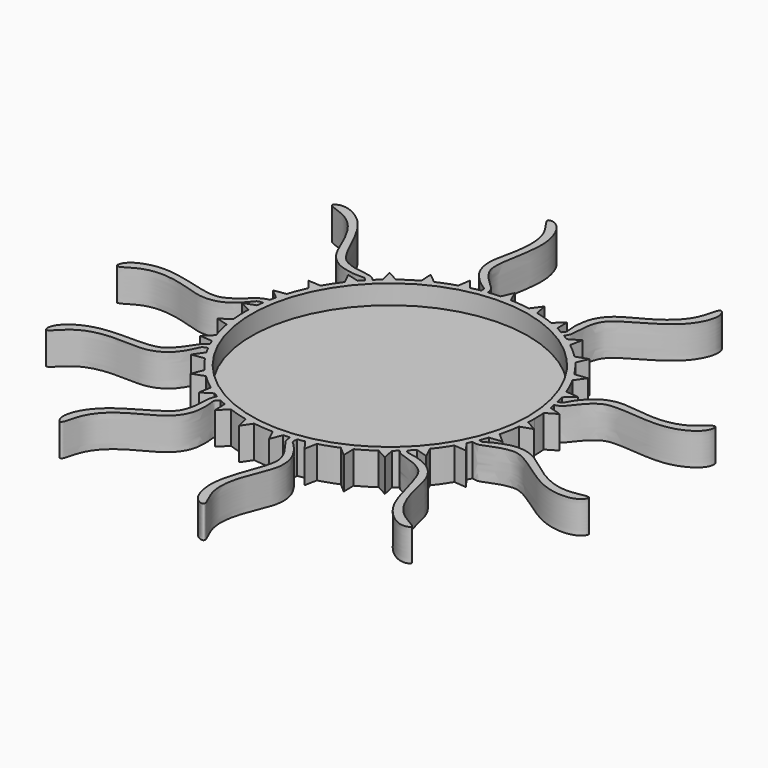
from build123d import *

# Parameters (mm, degrees)
F0_R     = 21.5
F1_DEPTH = 5
F2_DEPTH = 2


with BuildPart() as f1:
    # F0 (on Top) → F1 (new body)
    with BuildSketch(Plane.XY):
        with BuildLine():
            ThreePointArc((22.4659625878, -1.2371438901), (22.4914890372, -0.6188060177), (22.5, 0))
            ThreePointArc((22.5, 0), (22.4810477467, 0.9233050482), (22.4242229145, 1.8450546555))
            ThreePointArc((22.4242229145, 1.8450546555), (22.3452317163, 2.6345055598), (22.2384564089, 3.4206807143))
            ThreePointArc((22.2384564089, 3.4206807143), (22.1692894741, 3.8435145655), (22.0920836798, 4.2649547107))
            ThreePointArc((22.0920836798, 4.2649547107), (21.9980055691, 4.7262829985), (21.8942950703, 5.1855417628))
            ThreePointArc((21.8942950703, 5.1855417628), (21.7371437588, 5.8091807694), (21.5622325182, 6.4280734929))
            ThreePointArc((21.5622325182, 6.4280734929), (21.3221963516, 7.1842844281), (21.0556481201, 7.9315624085))
            ThreePointArc((21.0556481201, 7.9315624085), (20.4628827549, 9.3552353984), (19.7739887058, 10.7349602077))
            ThreePointArc((19.7739887058, 10.7349602077), (19.3832188555, 11.4254464595), (18.9683478692, 12.1017262865))
            ThreePointArc((18.9683478692, 12.1017262865), (18.09483079, 13.3726249735), (17.1363094477, 14.5807029498))
            ThreePointArc((17.1363094477, 14.5807029498), (16.6115922974, 15.1758031532), (16.0662202575, 15.7520337302))
            ThreePointArc((16.0662202575, 15.7520337302), (14.9494753236, 16.8155638487), (13.7625020938, 17.8000993289))
            ThreePointArc((13.7625020938, 17.8000993289), (13.1263780299, 18.2742496376), (12.4739325994, 18.7256777049))
            ThreePointArc((12.4739325994, 18.7256777049), (12.0566464932, 18.9970333299), (11.6334597971, 19.259091701))
            ThreePointArc((11.6334597971, 19.259091701), (11.2348232902, 19.4943259857), (10.8314321786, 19.7213102242))
            ThreePointArc((10.8314321786, 19.7213102242), (10.3179133787, 19.9947659028), (9.7974960052, 20.2548530488))
            ThreePointArc((9.7974960052, 20.2548530488), (9.0772911448, 20.5876852869), (8.3457995609, 20.8949187529))
            ThreePointArc((8.3457995609, 20.8949187529), (6.8949033044, 21.4175233961), (5.4116167935, 21.8395147309))
            ThreePointArc((5.4116167935, 21.8395147309), (4.63826913, 22.0167313532), (3.8591542327, 22.1665723243))
            ThreePointArc((3.8591542327, 22.1665723243), (2.3316887178, 22.3788567117), (0.7932696061, 22.4860117258))
            ThreePointArc((0.7932696061, 22.4860117258), (0, 22.5), (-0.7932696061, 22.4860117258))
            ThreePointArc((-0.7932696061, 22.4860117258), (-1.7166982486, 22.4344143477), (-2.6372262806, 22.344910775))
            ThreePointArc((-2.6372262806, 22.344910775), (-3.0893678468, 22.2868976376), (-3.5402413379, 22.2197365257))
            ThreePointArc((-3.5402413379, 22.2197365257), (-4.2994289921, 22.085400389), (-5.0535684833, 21.9251327381))
            ThreePointArc((-5.0535684833, 21.9251327381), (-5.8234285148, 21.7333310915), (-6.5860476828, 21.5145061742))
            ThreePointArc((-6.5860476828, 21.5145061742), (-8.044312676, 21.0128302132), (-9.4647878232, 20.4124420749))
            ThreePointArc((-9.4647878232, 20.4124420749), (-10.178573327, 20.0660570373), (-10.8797027709, 19.6947218212))
            ThreePointArc((-10.8797027709, 19.6947218212), (-12.2032281254, 18.9032066941), (-13.4694262561, 18.0228897886))
            ThreePointArc((-13.4694262561, 18.0228897886), (-14.0964749963, 17.5368010959), (-14.7059961492, 17.028907107))
            ThreePointArc((-14.7059961492, 17.028907107), (-15.1736308308, 16.613576599), (-15.6295407805, 16.1854087064))
            ThreePointArc((-15.6295407805, 16.1854087064), (-15.9542734859, 15.8654075755), (-16.2724558141, 15.5388925532))
            ThreePointArc((-16.2724558141, 15.5388925532), (-16.5874382994, 15.2022001915), (-16.8954556756, 14.8591243859))
            ThreePointArc((-16.8954556756, 14.8591243859), (-17.4088313859, 14.2542130536), (-17.9005609178, 13.6315780022))
            ThreePointArc((-17.9005609178, 13.6315780022), (-18.7922724827, 12.373378477), (-19.5957034061, 11.0570524111))
            ThreePointArc((-19.5957034061, 11.0570524111), (-19.9733528967, 10.3593037443), (-20.3261674772, 9.6486742969))
            ThreePointArc((-20.3261674772, 9.6486742969), (-20.9393544085, 8.2336770009), (-21.4541743304, 6.7800002802))
            ThreePointArc((-21.4541743304, 6.7800002802), (-21.6798748317, 6.0193876169), (-21.8786185299, 5.2512904341))
            ThreePointArc((-21.8786185299, 5.2512904341), (-21.9863960862, 4.7799986551), (-22.0840226833, 4.3064999855))
            ThreePointArc((-22.0840226833, 4.3064999855), (-22.1861859681, 3.7447499499), (-22.2740624256, 3.1805884771))
            ThreePointArc((-22.2740624256, 3.1805884771), (-22.3378018265, 2.6967776254), (-22.3910337173, 2.2116982328))
            ThreePointArc((-22.3910337173, 2.2116982328), (-22.4550897646, 1.4208953733), (-22.4912251051, 0.6283257694))
            ThreePointArc((-22.4912251051, 0.6283257694), (-22.4814365334, -0.9137895778), (-22.3660366982, -2.4516122069))
            ThreePointArc((-22.3660366982, -2.4516122069), (-22.2656966225, -3.2386345757), (-22.1376713316, -4.0216300193))
            ThreePointArc((-22.1376713316, -4.0216300193), (-21.8101931822, -5.5286050098), (-21.3802570757, -7.0096082186))
            ThreePointArc((-21.3802570757, -7.0096082186), (-21.1198312068, -7.7590418091), (-20.8331448944, -8.4988277904))
            ThreePointArc((-20.8331448944, -8.4988277904), (-20.6676034532, -8.8938274944), (-20.4945735532, -9.2856047124))
            ThreePointArc((-20.4945735532, -9.2856047124), (-20.2669810732, -9.772383444), (-20.0278288329, -10.2535882617))
            ThreePointArc((-20.0278288329, -10.2535882617), (-19.7584268043, -10.7635760889), (-19.4760411948, -11.2664909967))
            ThreePointArc((-19.4760411948, -11.2664909967), (-19.0667167024, -11.9461422305), (-18.6336846133, -12.6109396054))
            ThreePointArc((-18.6336846133, -12.6109396054), (-17.7260727104, -13.8577179313), (-16.735188863, -15.0393967207))
            ThreePointArc((-16.735188863, -15.0393967207), (-16.1945491863, -15.620069675), (-15.6337731724, -16.181320601))
            ThreePointArc((-15.6337731724, -16.181320601), (-14.4886380231, -17.2142199427), (-13.2754394576, -18.1662518756))
            ThreePointArc((-13.2754394576, -18.1662518756), (-12.6267089707, -18.6230024585), (-11.9622784065, -19.0565971602))
            ThreePointArc((-11.9622784065, -19.0565971602), (-11.6012267393, -19.2785253104), (-11.2360591192, -19.4936137099))
            ThreePointArc((-11.2360591192, -19.4936137099), (-10.7475097101, -19.767170638), (-10.2523045107, -20.0284860192))
            ThreePointArc((-10.2523045107, -20.0284860192), (-9.7518656079, -20.2768616202), (-9.2454141712, -20.5127354783))
            ThreePointArc((-9.2454141712, -20.5127354783), (-8.5164605276, -20.8259429578), (-7.7769174986, -21.113255415))
            ThreePointArc((-7.7769174986, -21.113255415), (-6.3124014936, -21.5963790341), (-4.8182316585, -21.9780491328))
            ThreePointArc((-4.8182316585, -21.9780491328), (-4.0403686752, -22.1342589885), (-3.2574818888, -22.2629470588))
            ThreePointArc((-3.2574818888, -22.2629470588), (-1.7248279859, -22.4337907724), (-0.1840713419, -22.4992470483))
            ThreePointArc((-0.1840713419, -22.4992470483), (0.6092861552, -22.49174894), (1.4018860646, -22.4562845427))
            ThreePointArc((1.4018860646, -22.4562845427), (1.9130993627, -22.418520264), (2.4233196812, -22.3691198245))
            ThreePointArc((2.4233196812, -22.3691198245), (2.9137801889, -22.3105330508), (3.402836419, -22.2411938597))
            ThreePointArc((3.402836419, -22.2411938597), (3.9315312838, -22.1538498181), (4.4579961666, -22.0539400148))
            ThreePointArc((4.4579961666, -22.0539400148), (5.2327677504, -21.8830560405), (6.0010328996, -21.6849626271))
            ThreePointArc((6.0010328996, -21.6849626271), (7.4723482033, -21.2229595563), (8.908560584, -20.6612571815))
            ThreePointArc((8.908560584, -20.6612571815), (9.6314642265, -20.3343280404), (10.3423920857, -19.9821151519))
            ThreePointArc((10.3423920857, -19.9821151519), (11.6868658278, -19.2267305365), (12.9764380663, -18.3810243216))
            ThreePointArc((12.9764380663, -18.3810243216), (13.6164198419, -17.9120939784), (14.2394709317, -17.420891699))
            ThreePointArc((14.2394709317, -17.420891699), (14.6084623037, -17.1126511424), (14.9707830732, -16.7965965057))
            ThreePointArc((14.9707830732, -16.7965965057), (15.314287697, -16.4840102018), (15.6512671298, -16.1644003054))
            ThreePointArc((15.6512671298, -16.1644003054), (16.074737284, -15.7433421245), (16.486883934, -15.3111938837))
            ThreePointArc((16.486883934, -15.3111938837), (17.016452009, -14.7204062792), (17.524861791, -14.1113152897))
            ThreePointArc((17.524861791, -14.1113152897), (18.450317622, -12.8777241641), (19.289099216, -11.5836372282))
            ThreePointArc((19.289099216, -11.5836372282), (19.6855048219, -10.8963709512), (20.0574334287, -10.1955561032))
            ThreePointArc((20.0574334287, -10.1955561032), (20.237872464, -9.8325234874), (20.4117413994, -9.4662988038))
            ThreePointArc((20.4117413994, -9.4662988038), (20.6058059511, -9.0360810702), (20.7908040153, -8.6018874905))
            ThreePointArc((20.7908040153, -8.6018874905), (21.0359453202, -7.9836711159), (21.2627085534, -7.3584798003))
            ThreePointArc((21.2627085534, -7.3584798003), (21.5089232101, -6.6042578948), (21.7283936254, -5.8418242409))
            ThreePointArc((21.7283936254, -5.8418242409), (22.0775192962, -4.3397167793), (22.3229311895, -2.8172225879))
            ThreePointArc((22.3229311895, -2.8172225879), (22.4083782015, -2.028444325), (22.4659625878, -1.2371438901))
        make_face()
        Circle(F0_R, mode=Mode.SUBTRACT)
        with BuildLine():
            ThreePointArc((22.2384564089, 3.4206807143), (22.3452317163, 2.6345055598), (22.4242229145, 1.8450546555))
            Line((22.4242229145, 1.8450546555), (24.0974978005, 2.8410979461))
            Line((24.0974978005, 2.8410979461), (22.2384564089, 3.4206807143))
        make_face()
        with BuildLine():
            Line((24.1655961002, -2.1875106636), (22.4659625878, -1.2371438901))
            ThreePointArc((22.4659625878, -1.2371438901), (22.4083782015, -2.028444325), (22.3229311895, -2.8172225879))
            Line((22.3229311895, -2.8172225879), (24.1655961002, -2.1875106636))
        make_face()
        with BuildLine():
            ThreePointArc((21.8942950703, 5.1855417628), (21.9980055691, 4.7262829985), (22.0920836798, 4.2649547107))
            add(Edge.make_bspline(
                [(21.8942950703, 5.1855417628), (22.0635231652, 5.2198289256), (22.5705621267, 5.2798439981), (22.6961263843, 5.6985990844), (23.0767262993, 6.2471991798), (23.3613164831, 6.8310220181), (24.2327881734, 7.8294574658), (25.4098177988, 8.9960774368), (27.7680098339, 9.8412441253), (30.4783038105, 9.5162907145), (34.5037120835, 9.0165783236), (38.4905899722, 9.9409078137), (41.0370062872, 12.8791769816), (41.1374541007, 10.3429327839), (36.8089597788, 7.6000413307), (30.4227303321, 8.465354344), (27.0602755734, 8.4919760217), (25.8690474599, 7.7551246288), (25.0330800431, 7.0454259478), (24.3893608031, 6.3025511508), (23.4688304487, 5.1375244865), (23.0029332466, 4.5549350788), (22.3227383292, 4.3207266008), (22.0920836798, 4.2649547107)],
                knots=[0, 0, 0, 0, 0.027981319, 0.0504052407, 0.0788156994, 0.1075040846, 0.1475098092, 0.193390466, 0.2478732016, 0.3063838053, 0.3775020553, 0.4513844423, 0.5099516501, 0.548530387, 0.625293872, 0.7169324806, 0.7805116439, 0.8204577183, 0.856627857, 0.8924503377, 0.9352274154, 0.966565739, 1, 1, 1, 1], degree=3))
        make_face()
        with BuildLine():
            Line((23.1956077398, -7.1221499117), (21.7283936254, -5.8418242409))
            ThreePointArc((21.7283936254, -5.8418242409), (21.5089232101, -6.6042578948), (21.2627085534, -7.3584798003))
            Line((21.2627085534, -7.3584798003), (23.1956077398, -7.1221499117))
        make_face()
        with BuildLine():
            ThreePointArc((21.0556481201, 7.9315624085), (21.3221963516, 7.1842844281), (21.5622325182, 6.4280734929))
            Line((21.5622325182, 6.4280734929), (22.9942381537, 7.747660906))
            Line((22.9942381537, 7.747660906), (21.0556481201, 7.9315624085))
        make_face()
        with BuildLine():
            add(Edge.make_bspline(
                [(20.7908040153, -8.6018874905), (20.9498167592, -8.6593125453), (21.3525760836, -8.808693402), (21.6516799134, -8.5267477084), (22.2555891561, -8.2419460467), (22.7939629041, -7.8786357294), (24.0478972505, -7.4497011128), (25.6505447925, -7.0278933941), (28.1153823462, -7.475053589), (30.3000890762, -9.111618486), (33.5363387059, -11.5570862476), (37.4512409843, -12.7500323721), (41.1256367856, -11.4786247871), (39.944505045, -13.7253005992), (34.8244732755, -13.9364671166), (29.7264928469, -9.9939693415), (26.8278324456, -8.2896869129), (25.4277729412, -8.3322048812), (24.3489545811, -8.5288382596), (23.4200399678, -8.8503270857), (22.0403239638, -9.3990045958), (21.3455504474, -9.6705932218), (20.6393801304, -9.5333262548), (20.4117413994, -9.4662988038)],
                knots=[0.0047111996, 0.0047111996, 0.0047111996, 0.0047111996, 0.027981319, 0.0504052407, 0.0788156994, 0.1075040846, 0.1475098092, 0.193390466, 0.2478732016, 0.3063838053, 0.3775020553, 0.4513844423, 0.5099516501, 0.548530387, 0.625293872, 0.7169324806, 0.7805116439, 0.8204577183, 0.856627857, 0.8924503377, 0.9352274154, 0.966565739, 1, 1, 1, 1], degree=3))
            ThreePointArc((20.7908040153, -8.6018874905), (20.6058059511, -9.0360810702), (20.4117413994, -9.4662988038))
        make_face()
        with BuildLine():
            ThreePointArc((18.9683478692, 12.1017262865), (19.3832188555, 11.4254464595), (19.7739887058, 10.7349602077))
            Line((19.7739887058, 10.7349602077), (20.9032101196, 12.3214059457))
            Line((20.9032101196, 12.3214059457), (18.9683478692, 12.1017262865))
        make_face()
        with BuildLine():
            Line((21.2292007158, -11.7508414486), (20.0574334287, -10.1955561032))
            ThreePointArc((20.0574334287, -10.1955561032), (19.6855048219, -10.8963709512), (19.289099216, -11.5836372282))
            Line((19.289099216, -11.5836372282), (21.2292007158, -11.7508414486))
        make_face()
        with BuildLine():
            ThreePointArc((16.0662202575, 15.7520337302), (16.6115922974, 15.1758031532), (17.1363094477, 14.5807029498))
            Line((17.1363094477, 14.5807029498), (17.914238435, 16.3658577251))
            Line((17.914238435, 16.3658577251), (16.0662202575, 15.7520337302))
        make_face()
        with BuildLine():
            Line((18.3508463938, -15.8747495859), (17.524861791, -14.1113152897))
            ThreePointArc((17.524861791, -14.1113152897), (17.016452009, -14.7204062792), (16.486883934, -15.3111938837))
            Line((16.486883934, -15.3111938837), (18.3508463938, -15.8747495859))
        make_face()
        with BuildLine():
            ThreePointArc((12.4739325994, 18.7256777049), (13.1263780299, 18.2742496376), (13.7625020938, 17.8000993289))
            Line((13.7625020938, 17.8000993289), (14.1557209932, 19.7072778675))
            Line((14.1557209932, 19.7072778675), (12.4739325994, 18.7256777049))
        make_face()
        with BuildLine():
            add(Edge.make_bspline(
                [(15.6512671298, -16.1644003054), (15.7319649649, -16.303000321), (15.9359851968, -16.6400888591), (16.3339929362, -16.6170801301), (16.9796812351, -16.7870947784), (17.6256308235, -16.8548429032), (18.8619141185, -17.3322733849), (20.3607461377, -18.0393119086), (21.961492216, -19.9662235305), (22.5831110282, -22.6242073925), (23.4903056964, -26.5777655459), (25.7224838443, -30.0080659732), (29.3544793723, -31.395967352), (27.0055445907, -32.3578040251), (22.9476374842, -29.2284739796), (21.5765466268, -22.9314268131), (20.4515355624, -19.7626477385), (19.3516977358, -18.8952774896), (18.3988814266, -18.3524563215), (17.4806425149, -18.0016362463), (16.0710356317, -17.5350832518), (15.4486949157, -17.3250455083), (15.0900996853, -16.9429719807), (14.9707830732, -16.7965965057)],
                knots=[0.0069414758, 0.0069414758, 0.0069414758, 0.0069414758, 0.027981319, 0.0504052407, 0.0788156994, 0.1075040846, 0.1475098092, 0.193390466, 0.2478732016, 0.3063838053, 0.3775020553, 0.4513844423, 0.5099516501, 0.548530387, 0.625293872, 0.7169324806, 0.7805116439, 0.8204577183, 0.856627857, 0.8924503377, 0.9352274154, 0.966565739, 0.9871481598, 0.9871481598, 0.9871481598, 0.9871481598], degree=3))
            ThreePointArc((15.6512671298, -16.1644003054), (15.314287697, -16.4840102018), (14.9707830732, -16.7965965057))
        make_face()
        with BuildLine():
            ThreePointArc((10.8314321786, 19.7213102242), (11.2348232902, 19.4943259857), (11.6334597971, 19.259091701))
            add(Edge.make_bspline(
                [(10.8314321786, 19.7213102242), (10.9504567532, 19.8465327213), (11.3228553497, 20.1938228668), (11.1885515728, 20.6063639492), (11.1847118215, 21.2748445154), (11.0832652807, 21.9160692082), (11.2243415371, 23.2338894097), (11.5194013291, 24.864612126), (12.9663383594, 26.9095464899), (15.3728709805, 28.1979175263), (18.956914258, 30.0974576006), (21.692600245, 33.1414028255), (22.0931802353, 37.0088566199), (23.6301925048, 34.9889010654), (21.6577530415, 30.2593367877), (15.9301474062, 27.3051549957), (13.1604905179, 25.3983717719), (12.6073890205, 24.1114444722), (12.3295068694, 23.0508224216), (12.2289333601, 22.0722208617), (12.1405556491, 20.5933209637), (12.1038054937, 19.8983756997), (11.7680696259, 19.4260002683), (11.6334597971, 19.259091701)],
                knots=[0, 0, 0, 0, 0.0279971596, 0.0504275097, 0.0788461131, 0.1075427227, 0.147559916, 0.1934537259, 0.2479520804, 0.3064794579, 0.377618096, 0.4515216635, 0.5101056613, 0.5486954578, 0.6254809493, 0.7171458287, 0.7807432188, 0.8207007448, 0.8568812528, 0.892714003, 0.9355033439, 0.9668506516, 0.9917869557, 0.9917869557, 0.9917869557, 0.9917869557], degree=3))
        make_face()
        with BuildLine():
            Line((14.6841908536, -19.316722723), (14.2394709317, -17.420891699))
            ThreePointArc((14.2394709317, -17.420891699), (13.6164198419, -17.9120939784), (12.9764380663, -18.3810243216))
            Line((12.9764380663, -18.3810243216), (14.6841908536, -19.316722723))
        make_face()
        with BuildLine():
            ThreePointArc((8.3457995609, 20.8949187529), (9.0772911448, 20.5876852869), (9.7974960052, 20.2548530488))
            Line((9.7974960052, 20.2548530488), (9.7891132288, 22.2021282758))
            Line((9.7891132288, 22.2021282758), (8.3457995609, 20.8949187529))
        make_face()
        with BuildLine():
            Line((10.3867433984, -21.9289032868), (10.3423920857, -19.9821151519))
            ThreePointArc((10.3423920857, -19.9821151519), (9.6314642265, -20.3343280404), (8.908560584, -20.6612571815))
            Line((8.908560584, -20.6612571815), (10.3867433984, -21.9289032868))
        make_face()
        with BuildLine():
            ThreePointArc((3.8591542327, 22.1665723243), (4.63826913, 22.0167313532), (5.4116167935, 21.8395147309))
            Line((5.4116167935, 21.8395147309), (5.0019924419, 23.7432371296))
            Line((5.0019924419, 23.7432371296), (3.8591542327, 22.1665723243))
        make_face()
        with BuildLine():
            Line((5.6431103941, -23.59907928), (6.0010328996, -21.6849626271))
            ThreePointArc((6.0010328996, -21.6849626271), (5.2327677504, -21.8830560405), (4.4579961666, -22.0539400148))
            Line((4.4579961666, -22.0539400148), (5.6431103941, -23.59907928))
        make_face()
        with BuildLine():
            ThreePointArc((-0.7932696061, 22.4860117258), (0, 22.5), (0.7932696061, 22.4860117258))
            Line((0.7932696061, 22.4860117258), (0, 24.2644026875))
            Line((0, 24.2644026875), (-0.7932696061, 22.4860117258))
        make_face()
        with BuildLine():
            add(Edge.make_bspline(
                [(3.402836419, -22.2411938597), (3.3907860316, -22.4356319503), (3.2542055999, -23.1077554776), (3.6541842138, -23.3163189345), (4.0824687706, -23.8354043451), (4.5737232137, -24.2584178396), (5.3122132817, -25.3597361699), (6.1345735388, -26.7982092924), (6.340553665, -29.2949243408), (5.3252107534, -31.8287216021), (3.8006687709, -35.5876461617), (3.6616238593, -39.6779046401), (5.8407126341, -42.8980347266), (3.3648911032, -42.3386314347), (1.8357581586, -37.4477143393), (4.3244641436, -31.5030505559), (5.2204460808, -28.2620571255), (4.8170147219, -26.9207116766), (4.3478629993, -25.9295344736), (3.7969067871, -25.1155224136), (2.9098324933, -23.9246537338), (2.4676647715, -23.3243608531), (2.4175148844, -22.6054741009), (2.4233196812, -22.3691198245)],
                knots=[0, 0, 0, 0, 0.0315699306, 0.053911065, 0.0822166347, 0.1107991048, 0.1506571316, 0.1963684009, 0.2506499907, 0.3089445782, 0.3798002656, 0.453409885, 0.5117608676, 0.550197175, 0.6266772556, 0.7179775422, 0.7813219766, 0.8211205734, 0.857157175, 0.892847402, 0.9354665503, 0.9666891755, 1, 1, 1, 1], degree=3))
            ThreePointArc((3.402836419, -22.2411938597), (2.9137801889, -22.3105330508), (2.4233196812, -22.3691198245))
        make_face()
        with BuildLine():
            ThreePointArc((-3.5402413379, 22.2197365257), (-3.0893678468, 22.2868976376), (-2.6372262806, 22.344910775))
            add(Edge.make_bspline(
                [(-3.5402413379, 22.2197365257), (-3.5596598142, 22.3914061092), (-3.5863262966, 22.8999137871), (-3.988679904, 23.0622074214), (-4.5032338717, 23.4889570265), (-5.0596490639, 23.8234157552), (-5.9784758366, 24.7785649348), (-7.0380211333, 26.0528022058), (-7.6744585442, 28.4756787491), (-7.1145186662, 31.1473386295), (-6.2658721733, 35.1138758901), (-6.8392044415, 39.1661432136), (-9.5443580752, 41.9589566693), (-7.0090099046, 41.8379739748), (-4.6538131191, 37.2868923676), (-6.072412509, 31.0003804456), (-6.392032947, 27.6530435464), (-5.7617162298, 26.402122295), (-5.1278518054, 25.5074975046), (-4.4428469241, 24.8014207692), (-3.3667519729, 23.7831009844), (-2.8158418424, 23.2688815886), (-2.6723809169, 22.5775490707), (-2.6372262806, 22.344910775)],
                knots=[0, 0, 0, 0, 0.0279971596, 0.0504275097, 0.0788461131, 0.1075427227, 0.147559916, 0.1934537259, 0.2479520804, 0.3064794579, 0.377618096, 0.4515216635, 0.5101056613, 0.5486954578, 0.6254809493, 0.7171458287, 0.7807432188, 0.8207007448, 0.8568812528, 0.892714003, 0.9355033439, 0.9668506516, 1, 1, 1, 1], degree=3))
        make_face()
        with BuildLine():
            Line((0.6570650943, -24.2555045968), (1.4018860646, -22.4562845427))
            ThreePointArc((1.4018860646, -22.4562845427), (0.6092861552, -22.49174894), (-0.1840713419, -22.4992470483))
            Line((-0.1840713419, -22.4992470483), (0.6570650943, -24.2555045968))
        make_face()
        with BuildLine():
            ThreePointArc((-6.5860476828, 21.5145061742), (-5.8234285148, 21.7333310915), (-5.0535684833, 21.9251327381))
            Line((-5.0535684833, 21.9251327381), (-6.2800895336, 23.4376132154))
            Line((-6.2800895336, 23.4376132154), (-6.5860476828, 21.5145061742))
        make_face()
        with BuildLine():
            Line((-4.3572058907, -23.869981035), (-3.2574818888, -22.2629470588))
            ThreePointArc((-3.2574818888, -22.2629470588), (-4.0403686752, -22.1342589885), (-4.8182316585, -21.9780491328))
            Line((-4.8182316585, -21.9780491328), (-4.3572058907, -23.869981035))
        make_face()
        with BuildLine():
            ThreePointArc((-10.8797027709, 19.6947218212), (-10.178573327, 20.0660570373), (-9.4647878232, 20.4124420749))
            Line((-9.4647878232, 20.4124420749), (-10.9767556441, 21.6395950358))
            Line((-10.9767556441, 21.6395950358), (-10.8797027709, 19.6947218212))
        make_face()
        with BuildLine():
            Line((-9.1843034539, -22.4590696123), (-7.7769174986, -21.113255415))
            ThreePointArc((-7.7769174986, -21.113255415), (-8.5164605276, -20.8259429578), (-9.2454141712, -20.5127354783))
            Line((-9.2454141712, -20.5127354783), (-9.1843034539, -22.4590696123))
        make_face()
        with BuildLine():
            ThreePointArc((-14.7059961492, 17.028907107), (-14.0964749963, 17.5368010959), (-13.4694262561, 18.0228897886))
            Line((-13.4694262561, 18.0228897886), (-15.2018909238, 18.9120001619))
            Line((-15.2018909238, 18.9120001619), (-14.7059961492, 17.028907107))
        make_face()
        with BuildLine():
            add(Edge.make_bspline(
                [(-10.2523045107, -20.0284860192), (-10.3750764635, -20.1576510305), (-10.7889738592, -20.4861198879), (-10.8231327035, -20.8955275855), (-10.7289229709, -21.4772797363), (-10.6723607183, -22.2491938863), (-10.6882434926, -23.5261614093), (-11.0266388171, -25.1751986025), (-12.4588392081, -27.2126097198), (-14.8700386752, -28.503363274), (-18.4525286532, -30.4021102096), (-21.188654573, -33.4462806223), (-21.5891463593, -37.3136877732), (-23.1261738034, -35.2937449143), (-21.1537385946, -30.5641451828), (-15.4260837538, -27.6101024306), (-12.6565539673, -25.7029804196), (-12.1031794762, -24.4167776129), (-11.8261146139, -23.3539871963), (-11.7223801696, -22.3837718173), (-11.6467231684, -20.8711230341), (-11.5778538147, -20.2903264639), (-11.3397788184, -19.7013619651), (-11.2360591192, -19.4936137099)],
                knots=[0, 0, 0, 0, 0.0288786242, 0.0509145501, 0.0773596215, 0.1083639498, 0.147778415, 0.1933928525, 0.2475594558, 0.3057305558, 0.3764361472, 0.4498898368, 0.5081172125, 0.546472099, 0.6227901692, 0.7138970513, 0.777107301, 0.816821591, 0.852781855, 0.8883964783, 0.9309253449, 0.9620818302, 0.9832709369, 0.9832709369, 0.9832709369, 0.9832709369], degree=3))
            ThreePointArc((-10.2523045107, -20.0284860192), (-10.7475097101, -19.767170638), (-11.2360591192, -19.4936137099))
        make_face()
        with BuildLine():
            ThreePointArc((-16.2724558141, 15.5388925532), (-15.9542734859, 15.8654075755), (-15.6295407805, 16.1854087064))
            add(Edge.make_bspline(
                [(-16.2724558141, 15.5388925532), (-16.3868281266, 15.668378063), (-16.7003400519, 16.069627901), (-17.1230166364, 15.971790515), (-17.7892880886, 16.0262272953), (-18.4369143765, 15.9810532036), (-19.7374242683, 16.2364482208), (-21.3362254371, 16.6725120708), (-23.2472693367, 18.2921708422), (-24.3209945943, 20.8018348147), (-25.9009363913, 24.5377955515), (-28.6948677414, 27.5283687344), (-32.51269186, 28.2644952049), (-30.3664634002, 29.619607952), (-25.8268059689, 27.2424655289), (-23.3830594538, 21.2791812539), (-21.7249236191, 18.3538766381), (-20.4910994382, 17.6907167542), (-19.4587324, 17.321452726), (-18.4926202734, 17.1359711834), (-17.027050661, 16.9190351572), (-16.2923155336, 16.8154204546), (-15.7930643225, 16.354294063), (-15.6295407805, 16.1854087064)],
                knots=[0, 0, 0, 0, 0.0279971596, 0.0504275097, 0.0788461131, 0.1075427227, 0.147559916, 0.1934537259, 0.2479520804, 0.3064794579, 0.377618096, 0.4515216635, 0.5101056613, 0.5486954578, 0.6254809493, 0.7171458287, 0.7807432188, 0.8207007448, 0.8568812528, 0.892714003, 0.9355033439, 0.9668506516, 0.9983483244, 0.9983483244, 0.9983483244, 0.9983483244], degree=3))
        make_face()
        with BuildLine():
            Line((-13.616868937, -20.0833791513), (-11.9622784065, -19.0565971602))
            ThreePointArc((-11.9622784065, -19.0565971602), (-12.6267089707, -18.6230024585), (-13.2754394576, -18.1662518756))
            Line((-13.2754394576, -18.1662518756), (-13.616868937, -20.0833791513))
        make_face()
        with BuildLine():
            ThreePointArc((-17.9005609178, 13.6315780022), (-17.4088313859, 14.2542130536), (-16.8954556756, 14.8591243859))
            Line((-16.8954556756, 14.8591243859), (-18.7739953363, 15.3719984679))
            Line((-18.7739953363, 15.3719984679), (-17.9005609178, 13.6315780022))
        make_face()
        with BuildLine():
            Line((-17.46449168, -16.8449626934), (-15.6337731724, -16.181320601))
            ThreePointArc((-15.6337731724, -16.181320601), (-16.1945491863, -15.620069675), (-16.735188863, -15.0393967207))
            Line((-16.735188863, -15.0393967207), (-17.46449168, -16.8449626934))
        make_face()
        with BuildLine():
            ThreePointArc((-20.3261674772, 9.6486742969), (-19.9733528967, 10.3593037443), (-19.5957034061, 11.0570524111))
            Line((-19.5957034061, 11.0570524111), (-21.5396212313, 11.1716585606))
            Line((-21.5396212313, 11.1716585606), (-20.3261674772, 9.6486742969))
        make_face()
        with BuildLine():
            Line((-20.5618885331, -12.8829335842), (-18.6336846133, -12.6109396054))
            ThreePointArc((-18.6336846133, -12.6109396054), (-19.0667167024, -11.9461422305), (-19.4760411948, -11.2664909967))
            Line((-19.4760411948, -11.2664909967), (-20.5618885331, -12.8829335842))
        make_face()
        with BuildLine():
            ThreePointArc((-21.8786185299, 5.2512904341), (-21.6798748317, 6.0193876169), (-21.4541743304, 6.7800002802))
            Line((-21.4541743304, 6.7800002802), (-23.3799650281, 6.4914153364))
            Line((-23.3799650281, 6.4914153364), (-21.8786185299, 5.2512904341))
        make_face()
        with BuildLine():
            add(Edge.make_bspline(
                [(-20.0278288329, -10.2535882617), (-20.1951201939, -10.3029949044), (-20.6721476958, -10.4340236998), (-20.9162859197, -10.7509065125), (-21.1220075405, -11.3072398325), (-21.4602236806, -12.0021298615), (-22.112010193, -13.1007614429), (-23.2297431893, -14.3594357979), (-25.4887187172, -15.407864288), (-28.2222719389, -15.320064936), (-32.2741672604, -15.1731913452), (-36.1658085725, -16.4414549397), (-38.4463478972, -19.5904823613), (-38.7674813364, -17.0726467186), (-34.69450247, -13.9629108548), (-28.2571864006, -14.2684621577), (-24.9051425037, -14.0016110322), (-23.7828041728, -13.1644137838), (-23.0114654335, -12.3825432799), (-22.4365145889, -11.594177153), (-21.614695435, -10.3220221681), (-21.254307854, -9.8396935091), (-20.7099063991, -9.420486682), (-20.4945735532, -9.2856047124)],
                knots=[0, 0, 0, 0, 0.0282678227, 0.0503176084, 0.0767793129, 0.1078031419, 0.1472423973, 0.1928855247, 0.2470861969, 0.3052938846, 0.3760439473, 0.4495438367, 0.5078078354, 0.5461868457, 0.6225529174, 0.7137171025, 0.7769671092, 0.8167063782, 0.8526892599, 0.8883262835, 0.9308818994, 0.962057981, 0.986047343, 0.986047343, 0.986047343, 0.986047343], degree=3))
            ThreePointArc((-20.0278288329, -10.2535882617), (-20.2669810732, -9.772383444), (-20.4945735532, -9.2856047124))
        make_face()
        with BuildLine():
            ThreePointArc((-22.2740624256, 3.1805884771), (-22.1861859681, 3.7447499499), (-22.0840226833, 4.3064999855))
            add(Edge.make_bspline(
                [(-22.2740624256, 3.1805884771), (-22.4459006007, 3.1762279756), (-22.9214392699, 3.159154308), (-23.2418425645, 2.921954585), (-23.5832255412, 2.4364930989), (-24.0902277086, 1.8532811513), (-25.0039847569, 0.9606107563), (-26.4094582901, 0.0341732237), (-28.8627951473, -0.3938844089), (-31.4804867397, 0.3984250202), (-35.3563013692, 1.5889996514), (-39.4435895651, 1.3711825576), (-42.461449552, -1.0802974629), (-42.1199768374, 1.434860483), (-37.380922501, 3.3844701547), (-31.2420350819, 1.4232302701), (-27.9351433429, 0.8134158512), (-26.6343647728, 1.3316037851), (-25.686946978, 1.8871954669), (-24.927538332, 2.4998907302), (-23.8044825931, 3.5159944719), (-23.2639546073, 3.9418192573), (-22.35290294, 4.289615916), (-22.0840226833, 4.3064999855)],
                knots=[0, 0, 0, 0, 0.0278560323, 0.049915162, 0.0763880801, 0.1074250561, 0.1468810247, 0.1925434943, 0.2467671351, 0.3049994893, 0.3757795338, 0.4493105702, 0.5075992594, 0.5459945336, 0.6223929668, 0.7135957845, 0.7768725947, 0.8166287039, 0.8526268341, 0.8882789596, 0.9308526093, 0.9620419023, 1, 1, 1, 1], degree=3))
        make_face()
        with BuildLine():
            Line((-22.7760039598, -8.3674895523), (-20.8331448944, -8.4988277904))
            ThreePointArc((-20.8331448944, -8.4988277904), (-21.1198312068, -7.7590418091), (-21.3802570757, -7.0096082186))
            Line((-21.3802570757, -7.0096082186), (-22.7760039598, -8.3674895523))
        make_face()
        with BuildLine():
            ThreePointArc((-22.4912251051, 0.6283257694), (-22.4550897646, 1.4208953733), (-22.3910337173, 2.2116982328))
            Line((-22.3910337173, 2.2116982328), (-24.215970686, 1.5323190006))
            Line((-24.215970686, 1.5323190006), (-22.4912251051, 0.6283257694))
        make_face()
        with BuildLine():
            Line((-24.0117257319, -3.492601489), (-22.1376713316, -4.0216300193))
            ThreePointArc((-22.1376713316, -4.0216300193), (-22.2656966225, -3.2386345757), (-22.3660366982, -2.4516122069))
            Line((-22.3660366982, -2.4516122069), (-24.0117257319, -3.492601489))
        make_face()
    extrude(amount=F1_DEPTH)

    # F0 (on Top) → F2 (join)
    with BuildSketch(Plane.XY):
        Circle(F0_R)
    extrude(amount=F2_DEPTH)


solid = f1.part
